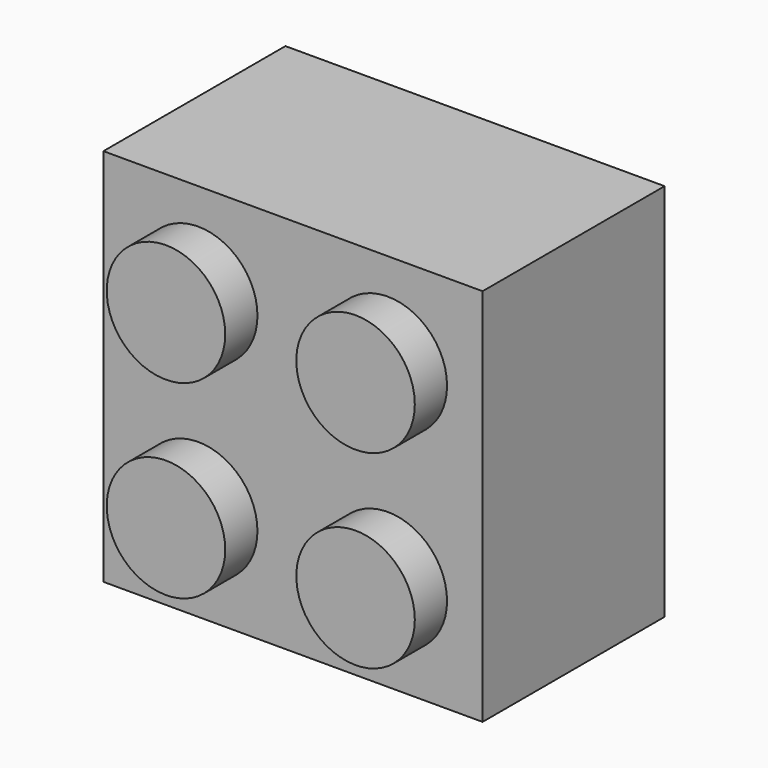
from build123d import *

# Parameters (mm, degrees)
F0_W     = 16
F0_H     = 16
F1_DEPTH = 9.6
F2_R     = 2.5
F3_DEPTH = 1.7
F4_W     = 13
F4_H     = 13
F4_R     = 3.155
F4_R_2   = 2.355
F5_DEPTH = 8


with BuildPart() as f1:
    # F0 (on Front) → F1 (new body)
    with BuildSketch(Plane.XZ):
        with Locations((-11.256055, -46.433249)):
            Rectangle(F0_W, F0_H)
    extrude(amount=-F1_DEPTH)

    # F2 (on face) → F3 (join)
    with BuildSketch(Plane.XZ):
        with Locations((-15.256055, -42.433249)):
            Circle(F2_R)
        with Locations((-15.256055, -50.433249)):
            Circle(F2_R)
        with Locations((-7.256055, -42.433249)):
            Circle(F2_R)
        with Locations((-7.256055, -50.433249)):
            Circle(F2_R)
    extrude(amount=F3_DEPTH)

    # F4 (on face) → F5 (cut)
    with BuildSketch(Plane(origin=(0, 9.6, 0), x_dir=(-1, 0, 0), z_dir=(0, 1, 0))):
        with Locations((11.256055, -46.433249)):
            Rectangle(F4_W, F4_H)
        with Locations((11.256055, -46.433249)):
            Circle(F4_R, mode=Mode.SUBTRACT)
        with Locations((11.256055, -46.433249)):
            Circle(F4_R_2)
    extrude(amount=-F5_DEPTH, mode=Mode.SUBTRACT)


solid = f1.part
